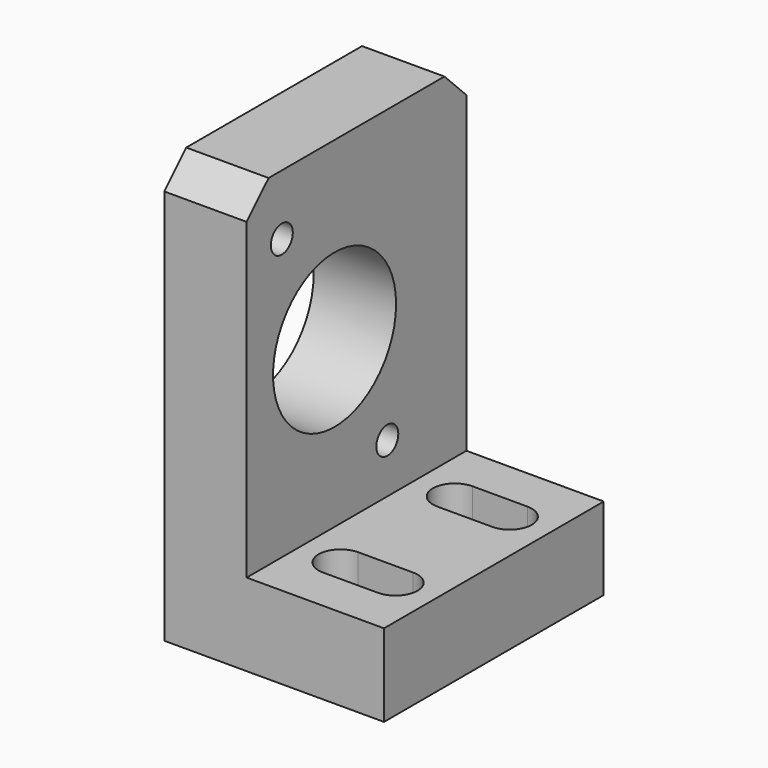
from build123d import *

# Parameters (mm, degrees)
F0_W      = 40
F0_H      = 50
F1_DEPTH  = 15
F2_W      = 15
F2_H      = 50
F3_DEPTH  = 62
F4_R      = 14
F5_DEPTH  = 15
F6_SIZE   = 5
F7_R      = 2.5
F8_DEPTH  = 15
F10_DEPTH = 15


with BuildPart() as f1:
    # F0 (on Top) → F1 (new body)
    with BuildSketch(Plane.XY):
        with Locations((20, 25)):
            Rectangle(F0_W, F0_H)
    extrude(amount=F1_DEPTH)

    # F2 (on face) → F3 (join)
    with BuildSketch(Plane.XY.offset(15)):
        with Locations((7.5, 25)):
            Rectangle(F2_W, F2_H)
    extrude(amount=F3_DEPTH)

    # F4 (on face) → F5 (cut, through all)
    with BuildSketch(Plane.YZ.offset(15)):
        with Locations((20, 45)):
            Circle(F4_R)
    extrude(amount=-F5_DEPTH, mode=Mode.SUBTRACT)

    # F6
    f6_edges = [f1.edges().sort_by_distance(p)[0] for p in [
        (7.5, 50, 77),
        (7.5, 0, 77),
    ]]
    chamfer(f6_edges, length=F6_SIZE)

    # F7 (on face) → F8 (cut, through all)
    with BuildSketch(Plane.YZ.offset(15)):
        with Locations((8, 66)):
            Circle(F7_R)
        with Locations((32, 24)):
            Circle(F7_R)
    extrude(amount=-F8_DEPTH, mode=Mode.SUBTRACT)

    # F9 (on face) → F10 (cut, through all)
    with BuildSketch(Plane.XY.offset(15)):
        with BuildLine():
            Line((32.5, 42), (22.5, 42))
            ThreePointArc((22.5, 42), (18.5, 38), (22.5, 34))
            Line((22.5, 34), (32.5, 34))
            ThreePointArc((32.5, 34), (36.5, 38), (32.5, 42))
        make_face()
        with BuildLine():
            Line((32.5, 16), (22.5, 16))
            ThreePointArc((22.5, 16), (18.5, 12), (22.5, 8))
            Line((22.5, 8), (32.5, 8))
            ThreePointArc((32.5, 8), (36.5, 12), (32.5, 16))
        make_face()
    extrude(amount=-F10_DEPTH, mode=Mode.SUBTRACT)


solid = f1.part
